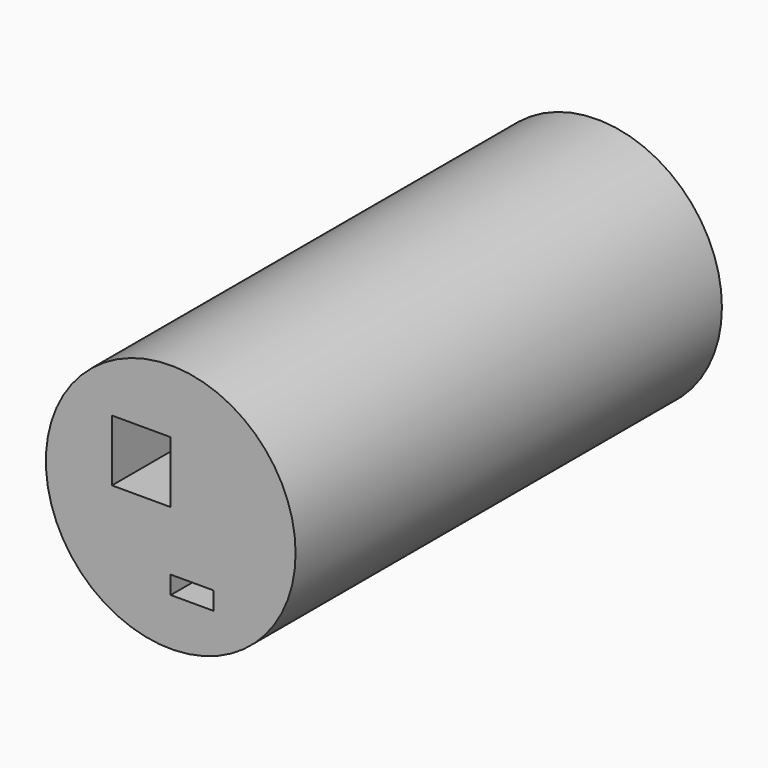
from build123d import *

# Parameters (mm, degrees)
F0_R     = 37.264648
F0_W     = 12.802701
F0_H     = 5.376745
F0_W_2   = 17.537981
F0_H_2   = 18.3715
F1_DEPTH = 159.043342


with BuildPart() as f1:
    # F0 (on Front) → F1 (new body)
    with BuildSketch(Plane.XZ):
        Circle(F0_R)
        with Locations((6.40135, -20.412508)):
            Rectangle(F0_W, F0_H, mode=Mode.SUBTRACT)
        with Locations((-8.76899, 9.18575)):
            Rectangle(F0_W_2, F0_H_2, mode=Mode.SUBTRACT)
    extrude(amount=F1_DEPTH)


solid = f1.part
